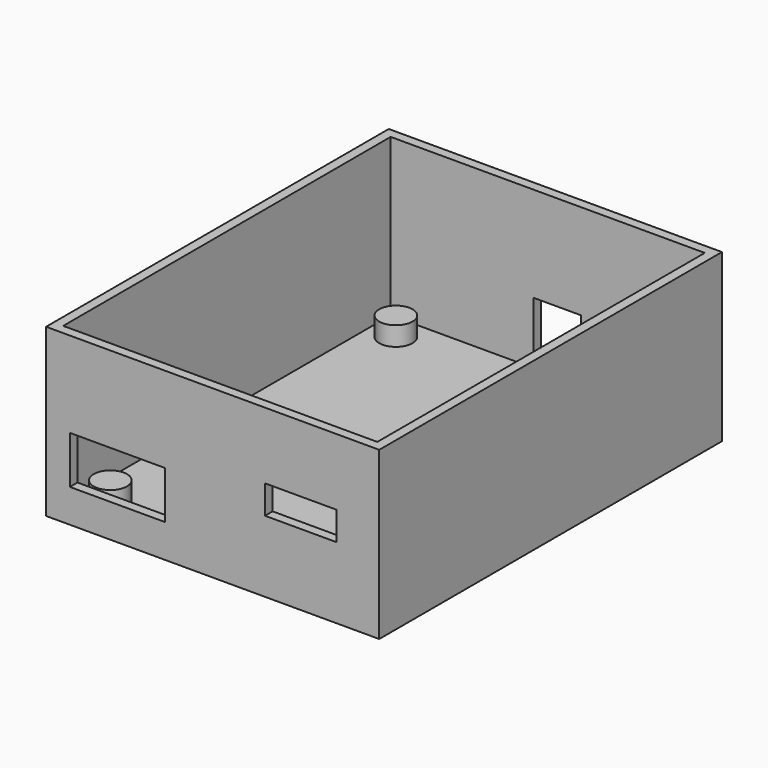
from build123d import *

# Parameters (mm, degrees)
F0_W     = 70
F0_H     = 90
F1_DEPTH = 35
F2_T     = -2
F3_R     = 3.5
F4_DEPTH = 4
F5_W     = 20
F5_H     = 10
F5_W_2   = 15
F5_H_2   = 6
F6_DEPTH = 2
F7_W     = 10
F7_H     = 10
F8_DEPTH = 2


with BuildPart() as f1:
    # F0 (on Top) → F1 (new body)
    with BuildSketch(Plane.XY):
        Rectangle(F0_W, F0_H)
    extrude(amount=F1_DEPTH)

    # F2
    f2_openings = [f1.faces().sort_by_distance(p)[0] for p in [
        (0, 0, 35),
    ]]
    offset(amount=F2_T, openings=f2_openings)

    # F3 (on face) → F4 (join)
    with BuildSketch(Plane.XY.offset(2)):
        with Locations((-27.5, 37.5)):
            Circle(F3_R)
        with Locations((27.5, -37.5)):
            Circle(F3_R)
        with Locations((27.5, 37.5)):
            Circle(F3_R)
        with Locations((-27.5, -37.5)):
            Circle(F3_R)
    extrude(amount=F4_DEPTH)

    # F5 (on face) → F6 (cut, through all)
    with BuildSketch(Plane.XZ.offset(45)):
        with Locations((-20, 12)):
            Rectangle(F5_W, F5_H)
        with Locations((18.5, 18)):
            Rectangle(F5_W_2, F5_H_2)
    extrude(amount=-F6_DEPTH, mode=Mode.SUBTRACT)

    # F7 (on face) → F8 (cut, through all)
    with BuildSketch(Plane(origin=(0, 45, 0), x_dir=(-1, 0, 0), z_dir=(0, 1, 0))):
        with Locations((-2, 10)):
            Rectangle(F7_W, F7_H)
    extrude(amount=-F8_DEPTH, mode=Mode.SUBTRACT)


solid = f1.part
